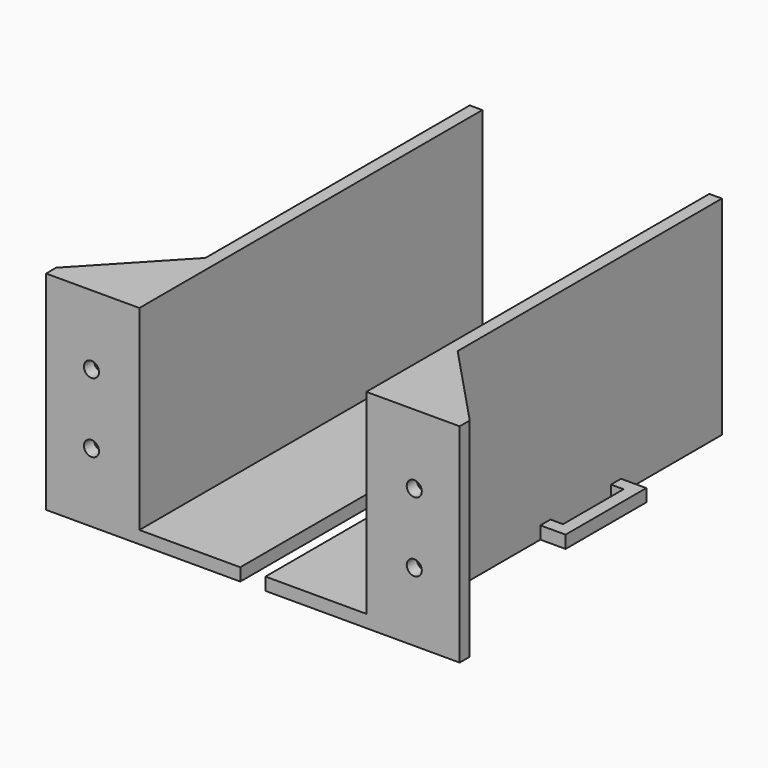
from build123d import *

# Parameters (mm, degrees)
F0_W      = 107.95
F0_H      = 52.3875
F1_DEPTH  = 3.175
F2_W      = 107.95
F2_H      = 3.175
F3_DEPTH  = 25.4
F4_W      = 3.175
F4_H      = 52.3875
F5_DEPTH  = 20.32
F7_DEPTH  = 3.175
F9_DEPTH  = 3.175
F10_W     = 25.4
F10_H     = 3.175
F11_DEPTH = 6.35
F12_W     = 3.175
F12_H     = 19.05
F13_DEPTH = 25.4
F15_D     = 3.7973


with BuildPart() as f1:
    # F0 (on Right) → F1 (new body)
    with BuildSketch(Plane.YZ):
        Rectangle(F0_W, F0_H)
    extrude(amount=F1_DEPTH)

    # F2 (on face) → F3 (join)
    with BuildSketch(Plane(origin=(0, 0, 0), x_dir=(0, -1, 0), z_dir=(-1, 0, 0))):
        with Locations((0, -24.60625)):
            Rectangle(F2_W, F2_H)
    extrude(amount=F3_DEPTH)

    # F4 (on face) → F5 (join)
    with BuildSketch(Plane.YZ.offset(3.175)):
        with Locations((-52.3875, 0)):
            Rectangle(F4_W, F4_H)
    extrude(amount=F5_DEPTH)

    # F6 (on face) → F7 (join)
    with BuildSketch(Plane(origin=(0, 0, -26.19375), x_dir=(1, 0, 0), z_dir=(0, 0, -1))):
        Polygon((3.175, 29.21), (23.495, 50.8), (3.175, 50.8), align=None)
    extrude(amount=-F7_DEPTH)

    # F8 (on face) → F9 (join)
    with BuildSketch(Plane.XY.offset(26.19375)):
        Polygon((3.175, -50.8), (23.495, -50.8), (3.175, -29.21), align=None)
    extrude(amount=-F9_DEPTH)

    # F10 (on face) → F11 (join)
    with BuildSketch(Plane.YZ.offset(3.175)):
        with Locations((9.525, -24.60625)):
            Rectangle(F10_W, F10_H)
    extrude(amount=F11_DEPTH)

    # F12 (on face) → F13 (cut)
    with BuildSketch(Plane.XY.offset(-23.01875)):
        with Locations((4.7625, 9.525)):
            Rectangle(F12_W, F12_H)
    extrude(amount=-F13_DEPTH, mode=Mode.SUBTRACT)

    # F15 (through all)
    with Locations(Plane.XZ.offset(53.975)):
        with Locations((12.065, 8.66775), (12.065, -8.85825)):
            Hole(F15_D / 2)


with BuildPart() as f17_1:
    # F17: instance of F1
    add(f1.part.mirror(Plane(origin=(-28.575, 0, -24.60625), x_dir=(0, -1, 0), z_dir=(-1, 0, 0))))


solid = Compound([f1.part, f17_1.part])
